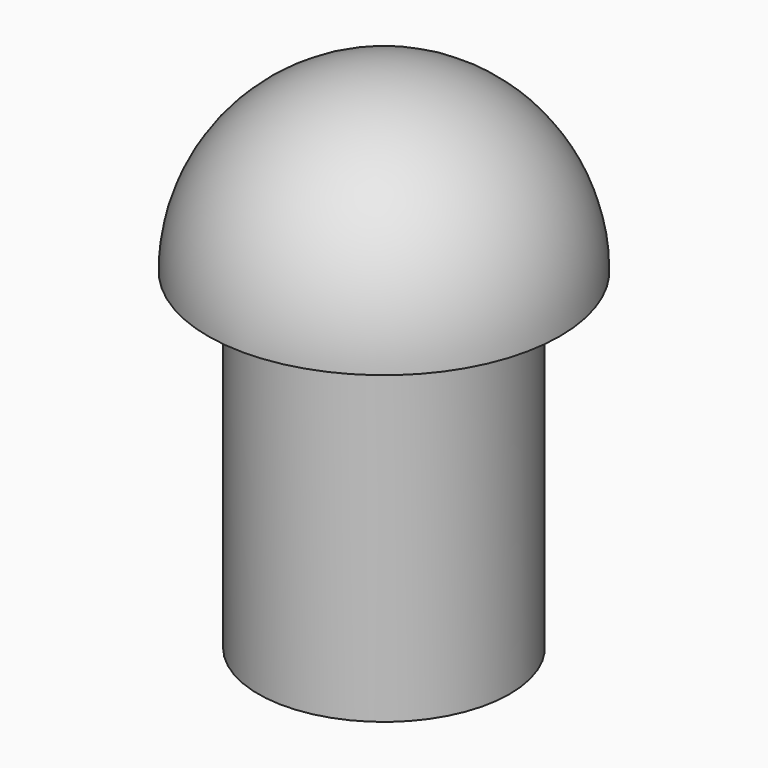
from build123d import *

# Parameters (mm, degrees)
F0_R     = 63.5
F1_DEPTH = 167.386
F3_ANGLE = 180


with BuildPart() as f1:
    # F0 (on Top) → F1 (new body)
    with BuildSketch(Plane.XY):
        Circle(F0_R)
    extrude(amount=F1_DEPTH)

    # F2 (on face) → F3 (revolve)
    with BuildSketch(Plane.XY.offset(167.386)):
        with BuildLine():
            ThreePointArc((0, -88.9), (88.9, 0), (0, 88.9))
            Line((0, 88.9), (0, 63.5))
            ThreePointArc((0, 63.5), (44.9012806053, 44.9012806053), (63.5, 0))
            ThreePointArc((63.5, 0), (44.9012806053, -44.9012806053), (0, -63.5))
            Line((0, -63.5), (0, -88.9))
        make_face()
        with BuildLine():
            ThreePointArc((63.5, 0), (44.9012806053, 44.9012806053), (0, 63.5))
            Line((0, 63.5), (0, -63.5))
            ThreePointArc((0, -63.5), (44.9012806053, -44.9012806053), (63.5, 0))
        make_face()
    revolve(axis=Axis((0, 0, 167.386), (0, -1, 0)), revolution_arc=F3_ANGLE)


solid = f1.part
